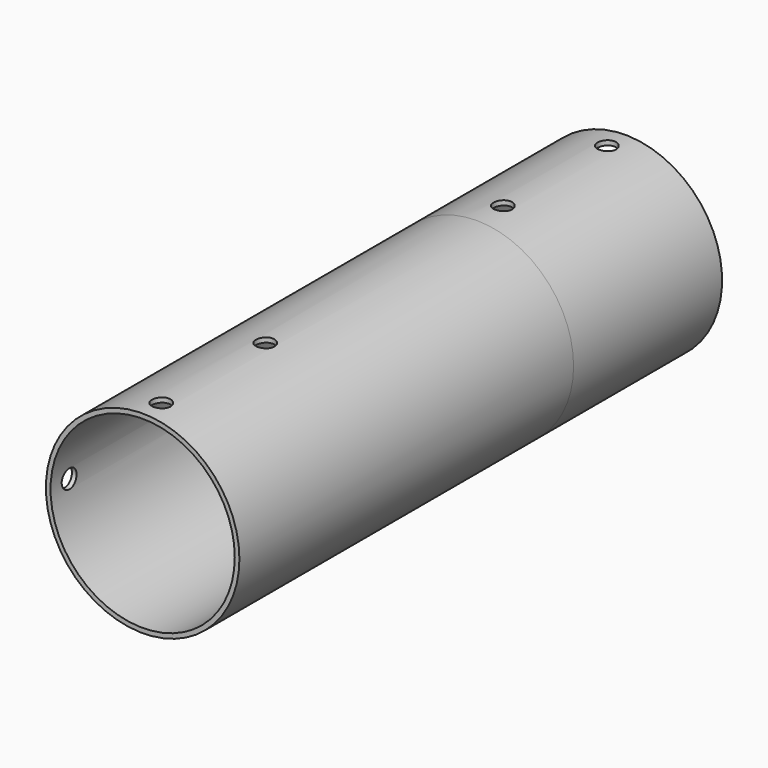
from build123d import *

# Parameters (mm, degrees)
F2_R      = 20.8464397385
F2_R_2    = 19.8464397385
F3_DEPTH  = 25
F4_R      = 20.8464397385
F4_R_2    = 19.8464397385
F5_DEPTH  = 40
F8_R      = 20.8464397385
F8_R_2    = 19.8464397385
F9_DEPTH  = 40
F6_R      = 2
F10_DEPTH = 20.8474397385
F7_R      = 2
F11_DEPTH = 20.8474398385
F12_R     = 2
F13_DEPTH = 20.8474398715
F14_R     = 2
F15_DEPTH = 20.8474398385


with BuildPart() as f3:
    # F2 (on Front) → F3 (new body, symmetric)
    with BuildSketch(Plane.XZ):
        Circle(F2_R)
        Circle(F2_R_2, mode=Mode.SUBTRACT)
    extrude(amount=F3_DEPTH, both=True)

    # F4 (on face) → F5 (join)
    with BuildSketch(Plane.XZ.offset(25)):
        Circle(F4_R)
        Circle(F4_R_2, mode=Mode.SUBTRACT)
    extrude(amount=F5_DEPTH)

    # F8 (on face) → F9 (join)
    with BuildSketch(Plane(origin=(0, 25, 0), x_dir=(-1, 0, 0), z_dir=(0, 1, 0))):
        Circle(F8_R)
        Circle(F8_R_2, mode=Mode.SUBTRACT)
    extrude(amount=F9_DEPTH)

    # F6 (on Top) → F10 (cut, through all)
    with BuildSketch(Plane.XY):
        with Locations((0, -32)):
            Circle(F6_R)
        with Locations((0, -60)):
            Circle(F6_R)
    extrude(amount=F10_DEPTH, mode=Mode.SUBTRACT)

    # F7 (on Right) → F11 (cut, through all)
    with BuildSketch(Plane.YZ):
        with Locations((-60, 0)):
            Circle(F7_R)
        with Locations((-32, 0)):
            Circle(F7_R)
    extrude(amount=-F11_DEPTH, mode=Mode.SUBTRACT)

    # F12 (on Top) → F13 (cut, through all)
    with BuildSketch(Plane.XY):
        with Locations((0, 60)):
            Circle(F12_R)
        with Locations((0, 32)):
            Circle(F12_R)
    extrude(amount=F13_DEPTH, mode=Mode.SUBTRACT)

    # F14 (on Right) → F15 (cut, through all)
    with BuildSketch(Plane.YZ):
        with Locations((60, 0)):
            Circle(F14_R)
        with Locations((32, 0)):
            Circle(F14_R)
    extrude(amount=-F15_DEPTH, mode=Mode.SUBTRACT)


solid = f3.part
